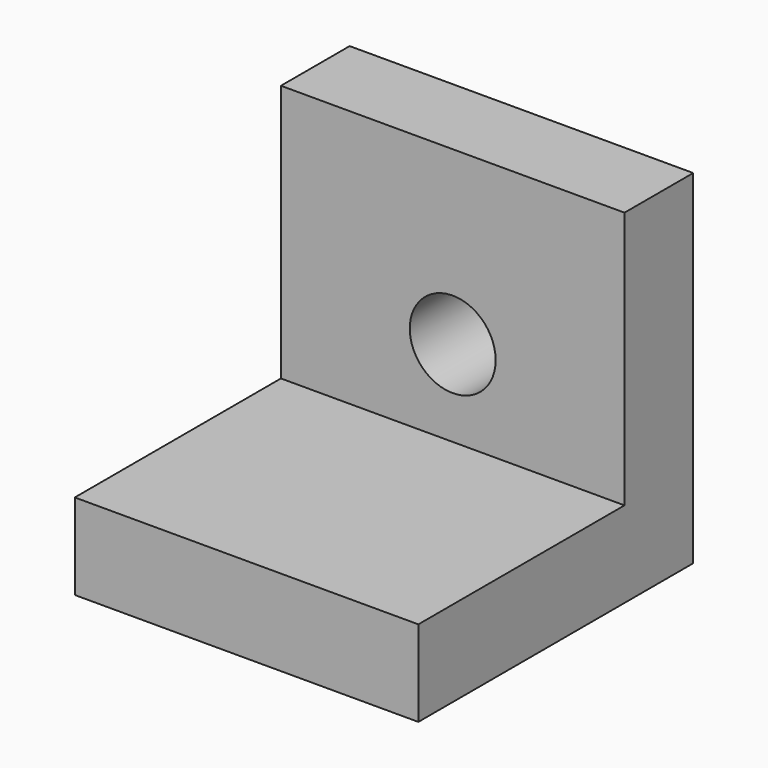
from build123d import *

# Parameters (mm, degrees)
F0_W     = 50.8
F0_H     = 50.8
F0_R     = 6.35
F1_DEPTH = 12.7
F2_W     = 50.8
F2_H     = 12.7
F3_DEPTH = 38.1


with BuildPart() as f1:
    # F0 (on Front) → F1 (new body)
    with BuildSketch(Plane.XZ):
        with Locations((-5.734448, -0.889986)):
            Rectangle(F0_W, F0_H)
        with Locations((-5.734448, -0.889986)):
            Circle(F0_R, mode=Mode.SUBTRACT)
    extrude(amount=F1_DEPTH)

    # F2 (on face) → F3 (join)
    with BuildSketch(Plane.XZ.offset(12.7)):
        with Locations((-5.734448, -19.939986)):
            Rectangle(F2_W, F2_H)
    extrude(amount=F3_DEPTH)


solid = f1.part
